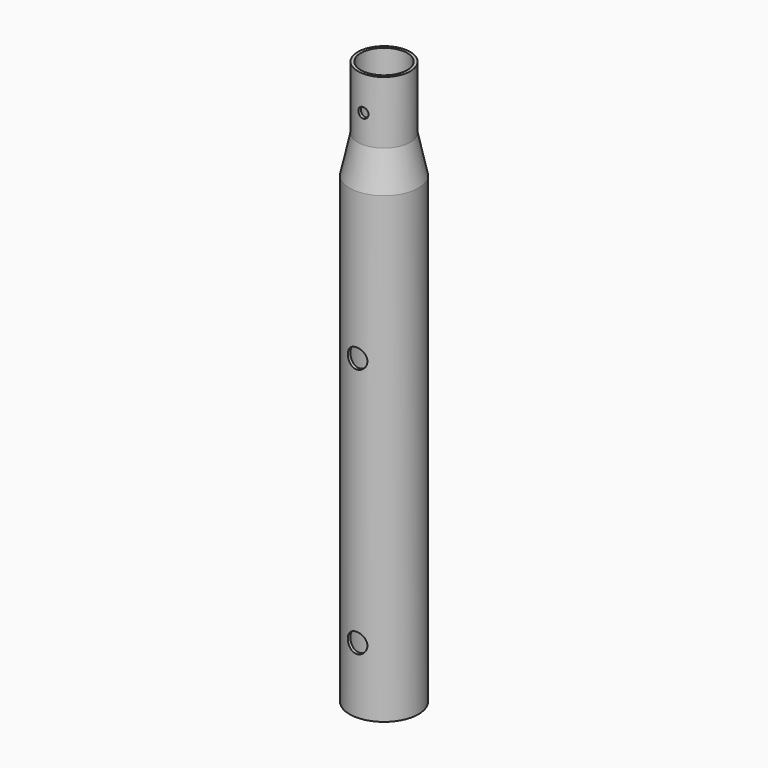
from build123d import *

# Parameters (mm, degrees)
F0_R      = 13.2969
F1_DEPTH  = 31.75
F3_R      = 17.4625
F4_DEPTH  = 234.95
F4_FACE_R = 17.4625
F1_FACE_R = 13.2969
F6_T      = -1.524
F12_D     = 9.92124
F12_DEPTH = 6.35
F12_TIP   = 2.980641204
F13_D     = 5.159375
F13_DEPTH = 6.35
F13_TIP   = 1.5500326281


with BuildPart() as f1:
    # F0 (on Top) → F1 (new body)
    with BuildSketch(Plane.XY):
        Circle(F0_R)
    extrude(amount=-F1_DEPTH)



with BuildPart() as f4:
    # F3 (on offset) → F4 (new body)
    with BuildSketch(Plane.XY.offset(-285.75)):
        Circle(F3_R)
    extrude(amount=F4_DEPTH)


with BuildPart() as f1_1:
    add(f1.part)

    add(f4.part)  # F5 merges F4
    # F4_face (on face) → F5 section 0
    with BuildSketch(Plane.XY.offset(-50.8)):
        Circle(F4_FACE_R)
    # F1_face (on face) → F5 section 1
    with BuildSketch(Plane(origin=(0, 0, -31.75), x_dir=(1, 0, 0), z_dir=(0, 0, -1))):
        Circle(F1_FACE_R)
    loft()

    # F6
    f6_openings = [f1_1.faces().sort_by_distance(p)[0] for p in [
        (0, 0, 0),
        (0, 0, -285.75),
    ]]
    offset(amount=F6_T, openings=f6_openings, kind=Kind.INTERSECTION)

    # F12
    with Locations(Plane.XZ.offset(17.4625)):
        with Locations((0, -125.4125), (0, -252.4125)):
            Hole(F12_D / 2, depth=F12_DEPTH)
            with Locations((0, 0, -(F12_DEPTH + F12_TIP / 2))):  # 118° drill point
                Cone(0, F12_D / 2, F12_TIP, mode=Mode.SUBTRACT)

    # F13
    with Locations(Plane.XZ.offset(13.2969)):
        with Locations((0, -17.4625)):
            Hole(F13_D / 2, depth=F13_DEPTH)
            with Locations((0, 0, -(F13_DEPTH + F13_TIP / 2))):  # 118° drill point
                Cone(0, F13_D / 2, F13_TIP, mode=Mode.SUBTRACT)


solid = f1_1.part
